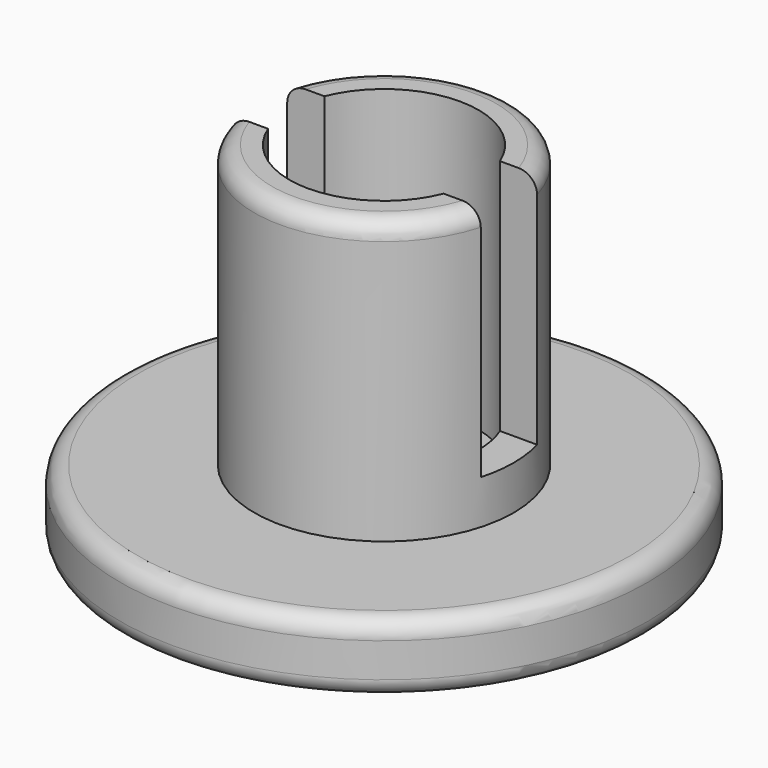
from build123d import *

# Parameters (mm, degrees)
F0_R     = 15
F1_DEPTH = 3.95
F2_R     = 7.375
F2_R_2   = 5.375
F3_DEPTH = 16
F4_W     = 23.3622987423
F4_H     = 4
F5_DEPTH = 13.5
F6_R     = 1


with BuildPart() as f1:
    # F0 (on Top) → F1 (new body)
    with BuildSketch(Plane.XY):
        Circle(F0_R)
    extrude(amount=F1_DEPTH)

    # F2 (on face) → F3 (join)
    with BuildSketch(Plane.XY.offset(3.95)):
        Circle(F2_R)
        Circle(F2_R_2, mode=Mode.SUBTRACT)
    extrude(amount=F3_DEPTH)

    # F4 (on face) → F5 (cut, through all)
    with BuildSketch(Plane.XY.offset(19.95)):
        Rectangle(F4_W, F4_H)
    extrude(amount=-F5_DEPTH, mode=Mode.SUBTRACT)

    # F6
    f6_edges = [f1.edges().sort_by_distance(p)[0] for p in [
        (0, -7.375, 19.95),
        (0, 7.375, 19.95),
        (15, 0, 1.975),
        (-15, 0, 0),
        (-15, 0, 3.95),
    ]]
    fillet(f6_edges, radius=F6_R)


solid = f1.part
